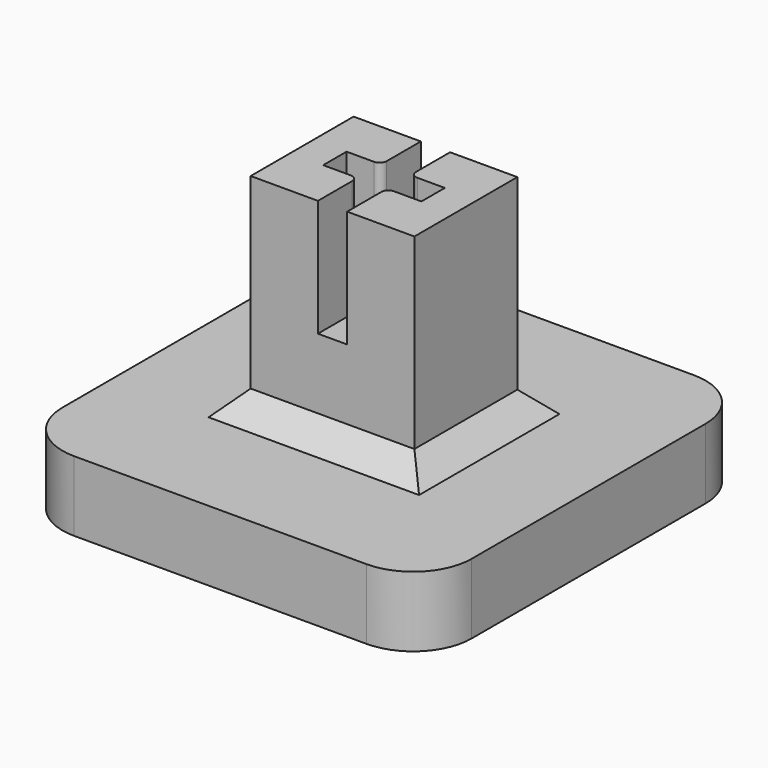
from build123d import *

# Parameters (mm, degrees)
PAD_DEPTH    = 3
SKETCH001_W  = 7
SKETCH001_H  = 5.5
PAD001_DEPTH = 9
POCKET_DEPTH = 5
CHAMFER_SIZE = 1


with BuildPart() as part:
    # Sketch → Pad (new body)
    with BuildSketch(Plane.XY):
        with BuildLine():
            ThreePointArc((-6.25, 8.75), (-8.017767, 8.017767), (-8.75, 6.25))
            Line((-8.75, -6.25), (-8.75, 6.25))
            ThreePointArc((-8.75, -6.25), (-8.017767, -8.017767), (-6.25, -8.75))
            Line((6.25, -8.75), (-6.25, -8.75))
            ThreePointArc((6.25, -8.75), (8.017767, -8.017767), (8.75, -6.25))
            Line((8.75, 6.25), (8.75, -6.25))
            ThreePointArc((8.75, 6.25), (8.017767, 8.017767), (6.25, 8.75))
            Line((-6.25, 8.75), (6.25, 8.75))
        make_face()
    extrude(amount=PAD_DEPTH)

    # Sketch001 (on Face10 of Pad) → Pad001 (join)
    with BuildSketch(Plane.XY.offset(3)):
        Rectangle(SKETCH001_W, SKETCH001_H)
    extrude(amount=PAD001_DEPTH)

    # Sketch002 (on Face15 of Pad001) → Pocket (cut)
    with BuildSketch(Plane.XY.offset(12)):
        with BuildLine():
            Line((-0.625, 2.75), (-0.625, 0.925))
            ThreePointArc((-0.925, 0.625), (-0.712868, 0.712868), (-0.625, 0.925))
            Line((-0.925, 0.625), (-2.1, 0.625))
            Line((-2.1, 0.625), (-2.1, -0.625))
            Line((-2.1, -0.625), (-0.925, -0.625))
            ThreePointArc((-0.625, -0.925), (-0.712868, -0.712868), (-0.925, -0.625))
            Line((-0.625, -0.925), (-0.625, -2.75))
            Line((-0.625, -2.75), (0.625, -2.75))
            Line((0.625, -0.925), (0.625, -2.75))
            ThreePointArc((0.925, -0.625), (0.712868, -0.712868), (0.625, -0.925))
            Line((2.1, -0.625), (0.925, -0.625))
            Line((2.1, 0.625), (2.1, -0.625))
            Line((0.925, 0.625), (2.1, 0.625))
            ThreePointArc((0.625, 0.925), (0.712868, 0.712868), (0.925, 0.625))
            Line((0.625, 2.75), (0.625, 0.925))
            Line((-0.625, 2.75), (0.625, 2.75))
        make_face()
    extrude(amount=-POCKET_DEPTH, mode=Mode.SUBTRACT)

    # Chamfer
    chamfer_edges = [part.edges().sort_by_distance(p)[0] for p in [
        (-3.5, 0, 3),
        (0, 2.75, 3),
        (0, -2.75, 3),
        (3.5, 0, 3),
    ]]
    chamfer(chamfer_edges, length=CHAMFER_SIZE)


solid = part.part
